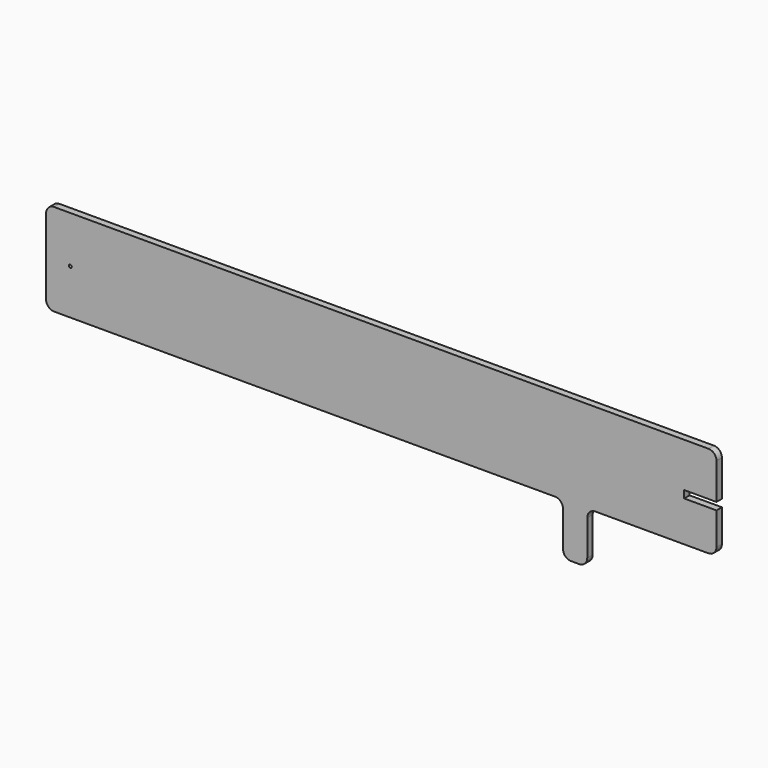
from build123d import *

# Parameters (mm, degrees)
F1_DEPTH = 5.334
F2_R     = 1.143
F3_DEPTH = 25.4


with BuildPart() as f1:
    # F0 (on Front) → F1 (new body)
    with BuildSketch(Plane.XZ):
        with BuildLine():
            Line((433.180757, 21.996105), (-81.169243, 21.996105))
            ThreePointArc((-81.169243, 21.996105), (-85.659371, 20.136233), (-87.519243, 15.646105))
            Line((-87.519243, 15.646105), (-87.519243, -44.043895))
            ThreePointArc((-87.519243, -44.043895), (-85.659371, -48.534023), (-81.169243, -50.393895))
            Line((-81.169243, -50.393895), (312.530757, -50.393895))
            ThreePointArc((312.530757, -50.393895), (317.020885, -52.253767), (318.880757, -56.743895))
            Line((318.880757, -56.743895), (318.880757, -84.580526))
            ThreePointArc((318.880757, -84.580526), (320.740629, -89.070654), (325.230757, -90.930526))
            Line((325.230757, -90.930526), (331.580757, -90.930526))
            ThreePointArc((331.580757, -90.930526), (336.070885, -89.070654), (337.930757, -84.580526))
            Line((337.930757, -84.580526), (337.930757, -56.743895))
            ThreePointArc((337.930757, -56.743895), (339.790629, -52.253767), (344.280757, -50.393895))
            Line((344.280757, -50.393895), (433.180757, -50.393895))
            ThreePointArc((433.180757, -50.393895), (437.670885, -48.534023), (439.530757, -44.043895))
            Line((439.530757, -44.043895), (439.530757, -18.643895))
            Line((439.530757, -18.643895), (414.130757, -18.643895))
            Line((414.130757, -18.643895), (414.130757, -12.801895))
            Line((414.130757, -12.801895), (439.530757, -12.801895))
            Line((439.530757, -12.801895), (439.530757, 15.646105))
            ThreePointArc((439.530757, 15.646105), (437.670885, 20.136233), (433.180757, 21.996105))
        make_face()
    extrude(amount=F1_DEPTH)

    # F2 (on face) → F3 (cut)
    with BuildSketch(Plane.XZ.offset(5.334)):
        with Locations((-68.469243, -14.833895)):
            Circle(F2_R)
    extrude(amount=-F3_DEPTH, mode=Mode.SUBTRACT)


solid = f1.part
